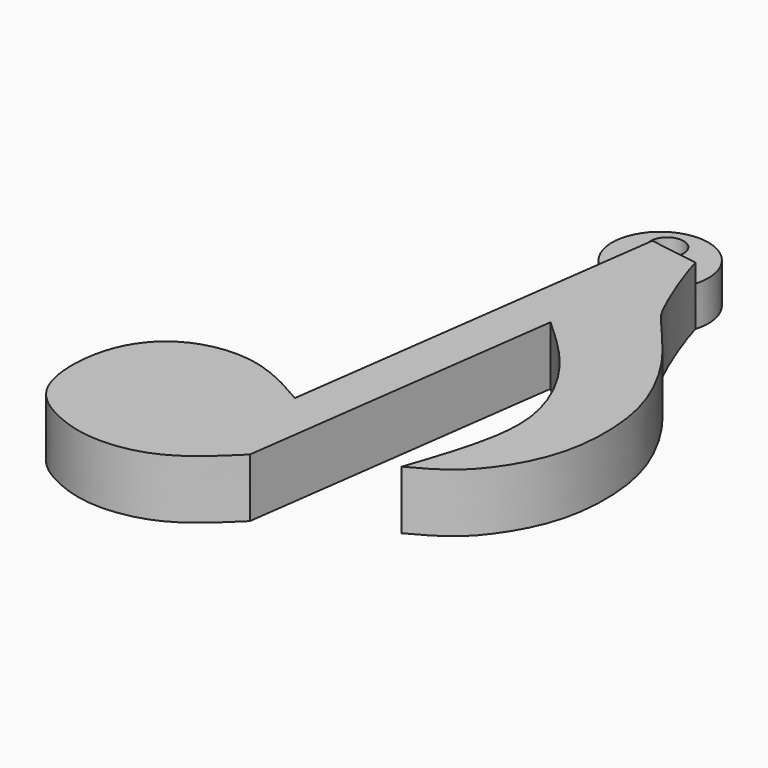
from build123d import *

# Parameters (mm, degrees)
F1_DEPTH = 5.588
F0_R     = 1.5875
F2_DEPTH = 3.81


with BuildPart() as f1:
    # F0 (on Top) → F1 (new body)
    with BuildSketch(Plane.XY):
        with BuildLine():
            Line((5.8533600532, 16.5355186909), (1.1685399804, 17.2595987498))
            Line((1.1685399804, 17.2595987498), (0.6344684199, 13.322157759))
            Line((0.6344684199, 13.322157759), (-3.7697718944, -19.1480908543))
            add(Edge.make_bspline(
                [(-3.7697718944, -19.1480908543), (-4.3555914665, -18.8016430905), (-5.7822178631, -17.9579506834), (-10.07942189, -15.9155984564), (-15.8703623677, -16.5296094496), (-20.1788042918, -20.9495015911), (-20.3416582915, -29.4957678975), (-15.8611889921, -32.5743524135), (-11.3658166935, -33.9344368989), (-5.4184186667, -32.9491526178), (-2.3140445763, -29.9160496434), (-0.7046127575, -28.3435676247)],
                knots=[0, 0, 0, 0, 0.0733716673, 0.1786795155, 0.2933199586, 0.4103962929, 0.5458171982, 0.653885502, 0.7586471083, 0.8748729978, 1, 1, 1, 1], degree=3))
            Line((-0.7046127575, -28.3435676247), (3.4501309904, 2.2872682951))
            add(Edge.make_bspline(
                [(3.4501309904, 2.2872682951), (4.6197476722, 1.2221385355), (7.0098302915, -0.9544276554), (10.2198450639, -5.0825493664), (12.6615847169, -11.5062056404), (10.7857675782, -18.6053580574), (9.7826652853, -21.5267447504), (9.3422969803, -22.8092521429)],
                knots=[0, 0, 0, 0, 0.1845963905, 0.3772181359, 0.5960105797, 0.8226460676, 1, 1, 1, 1], degree=3))
            add(Edge.make_bspline(
                [(9.3422969803, -22.8092521429), (10.3764018063, -22.2564735657), (12.4391825703, -21.153818412), (14.9121319585, -18.6603720305), (17.892394858, -13.345119646), (17.866540264, -5.6551098274), (15.8778206426, -0.6260222519), (13.4325832396, 3.3840169536), (9.7013106687, 7.5378647698), (8.6089736323, 9.0133392963), (6.6069778635, 14.002692023), (6.0762569166, 15.7863868205), (5.8533600532, 16.5355186909)],
                knots=[0, 0, 0, 0, 0.088190786, 0.1759185842, 0.2917429153, 0.4226818929, 0.5320046223, 0.6369322812, 0.746243833, 0.8136578164, 0.9217383665, 1, 1, 1, 1], degree=3))
        make_face()
    extrude(amount=F1_DEPTH)

    # F0 (on Top) → F2 (join)
    with BuildSketch(Plane.XY):
        with BuildLine():
            Line((0.6344684199, 13.322157759), (1.1685399804, 17.2595987498))
            Line((1.1685399804, 17.2595987498), (5.8533600532, 16.5355186909))
            ThreePointArc((5.8533600532, 16.5355186909), (-0.9582753649, 21.7537087006), (0.6344684199, 13.322157759))
        make_face()
        with Locations((0.5294481525, 19.8085624725)):
            Circle(F0_R, mode=Mode.SUBTRACT)
    extrude(amount=F2_DEPTH)


solid = f1.part
